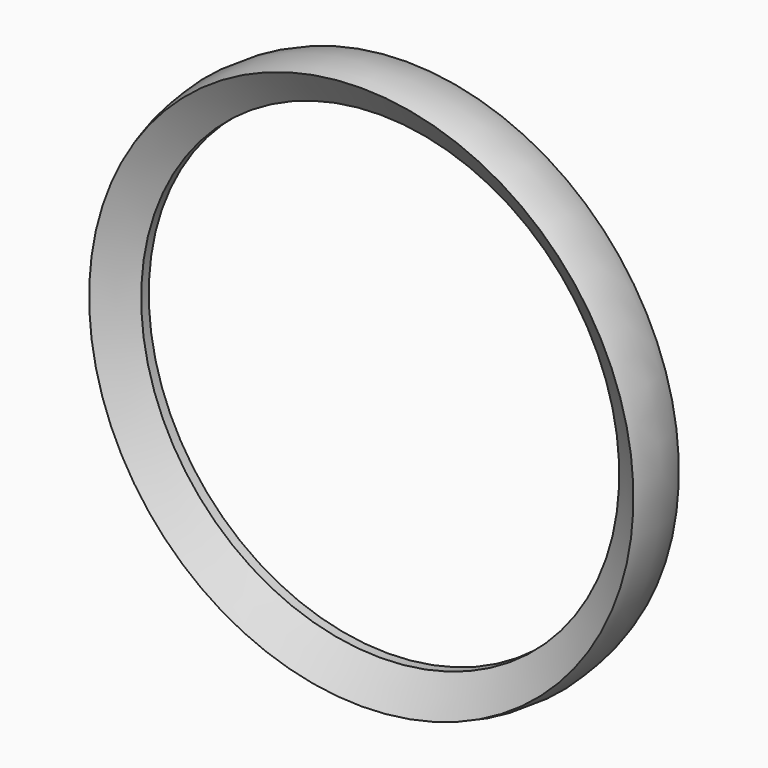
from build123d import *


with BuildPart() as f2:
    # F1 (on Right) → F2 (revolve)
    with BuildSketch(Plane.YZ):
        Polygon((-1, 50.5), (1, 50.5), (6, 57.5), (-6, 57.5), align=None)
        with BuildLine():
            Line((-6, 57.5), (6, 57.5))
            ThreePointArc((6, 57.5), (0, 58.5299695529), (-6, 57.5))
        make_face()
    revolve(axis=Axis((0, 0, 0), (0, -1, 0)))


solid = f2.part
